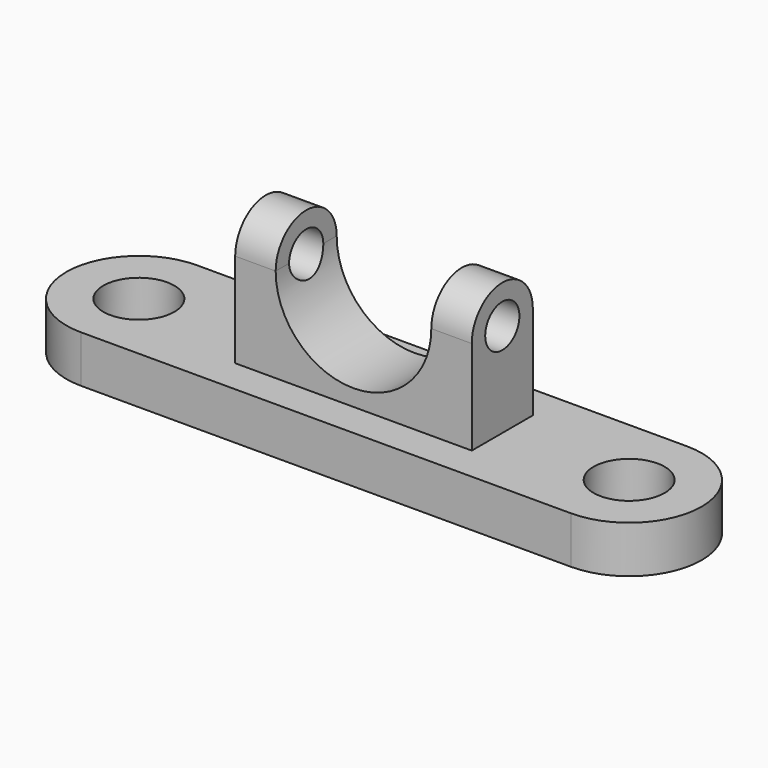
from build123d import *

# Parameters (mm, degrees)
F0_R      = 19.1564129226
F1_DEPTH  = 25.4
F2_W      = 127.5142282248
F2_H      = 41.1144047976
F3_DEPTH  = 50.8
F5_DEPTH  = 59.6617998013
F7_DEPTH  = 21.8189658163
F8_R      = 11.5269990365
F9_DEPTH  = 234.9744529853
F11_DEPTH = 21.8189658163


with BuildPart() as f1:
    # F0 (on Top) → F1 (new body)
    with BuildSketch(Plane.XY):
        with BuildLine():
            ThreePointArc((132.1127414703, -39.1035974026), (171.2163388729, 0), (132.1127414703, 39.1035974026))
            Line((132.1127414703, 39.1035974026), (-132.1127414703, 39.1035974026))
            ThreePointArc((-132.1127414703, 39.1035974026), (-171.2163388729, 0), (-132.1127414703, -39.1035974026))
            Line((-132.1127414703, -39.1035974026), (132.1127414703, -39.1035974026))
        make_face()
        with Locations((-132.1127414703, 0)):
            Circle(F0_R, mode=Mode.SUBTRACT)
        with Locations((132.1127414703, 0)):
            Circle(F0_R, mode=Mode.SUBTRACT)
    extrude(amount=F1_DEPTH)

    # F2 (on face) → F3 (join)
    with BuildSketch(Plane.XY.offset(25.4)):
        Rectangle(F2_W, F2_H)
    extrude(amount=F3_DEPTH)

    # F4 (on face) → F5 (cut, through all)
    with BuildSketch(Plane.XZ.offset(20.5572023988)):
        with BuildLine():
            ThreePointArc((-41.9381482961, 76.2), (0, 34.2618517039), (41.9381482961, 76.2))
            Line((41.9381482961, 76.2), (-41.9381482961, 76.2))
        make_face()
    extrude(amount=-F5_DEPTH, mode=Mode.SUBTRACT)

    # F6 (on face) → F7 (join, through all)
    with BuildSketch(Plane(origin=(-63.7571141124, 0, 0), x_dir=(0, -1, 0), z_dir=(-1, 0, 0))):
        with BuildLine():
            Line((-20.5572023988, 76.2), (20.5572023988, 76.2))
            ThreePointArc((20.5572023988, 76.2), (0, 96.7572023988), (-20.5572023988, 76.2))
        make_face()
    extrude(amount=-F7_DEPTH)

    # F8 (on face) → F9 (cut, through all)
    with BuildSketch(Plane(origin=(-63.7571141124, 0, 0), x_dir=(0, -1, 0), z_dir=(-1, 0, 0))):
        with Locations((0, 76.2)):
            Circle(F8_R)
    extrude(amount=-F9_DEPTH, mode=Mode.SUBTRACT)

    # F10 (on face) → F11 (join, through all)
    with BuildSketch(Plane.YZ.offset(63.7571141124)):
        with BuildLine():
            ThreePointArc((20.5572023988, 76.2), (0, 96.7572023988), (-20.5572023988, 76.2))
            Line((-20.5572023988, 76.2), (-11.5269990365, 76.2))
            ThreePointArc((-11.5269990365, 76.2), (0, 87.7269990365), (11.5269990365, 76.2))
            Line((11.5269990365, 76.2), (20.5572023988, 76.2))
        make_face()
    extrude(amount=-F11_DEPTH)


solid = f1.part
